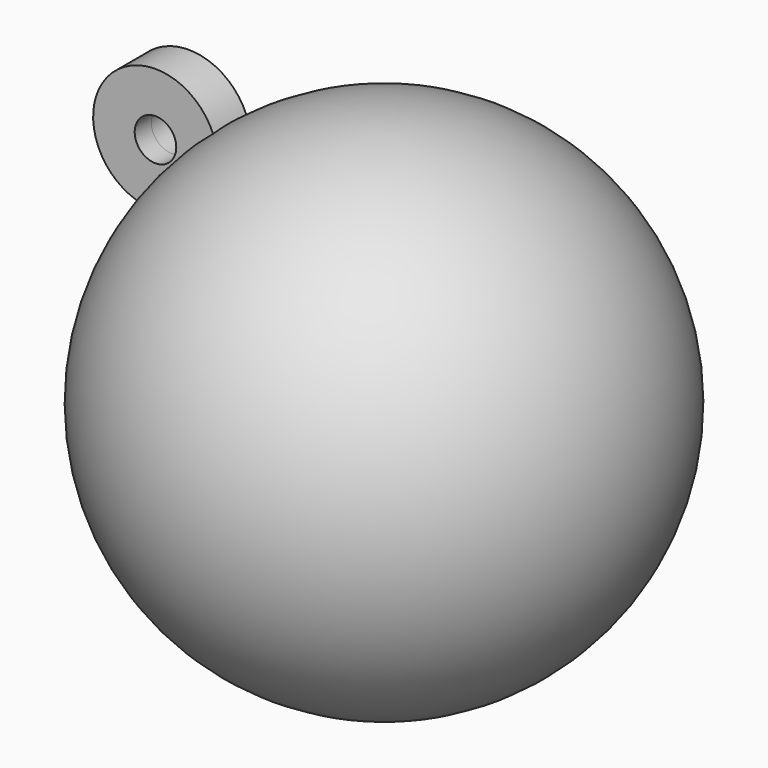
from build123d import *

# Parameters (mm, degrees)
F2_R          = 4.7625
F2_R_2        = 1.5875
F3_DEPTH      = 1.5875
F3_DEPTH_BACK = 1.5875


with BuildPart() as f1:
    # F0 (on Front) → F1 (revolve)
    with BuildSketch(Plane.XZ):
        with BuildLine():
            Line((0, -19.05), (0, 19.05))
            ThreePointArc((0, 19.05), (-19.05, 0), (0, -19.05))
        make_face()
    revolve(axis=Axis((0, 0, 0), (0, 0, -1)))

    # F2 (on Front) → F3 (join, two sides)
    with BuildSketch(Plane.XZ) as f3_sk:
        with Locations((-16.185202, 13.059719)):
            Circle(F2_R)
        with Locations((-16.185202, 13.059719)):
            Circle(F2_R_2, mode=Mode.SUBTRACT)
    extrude(amount=F3_DEPTH)
    extrude(f3_sk.sketch, amount=-F3_DEPTH_BACK)


solid = f1.part
